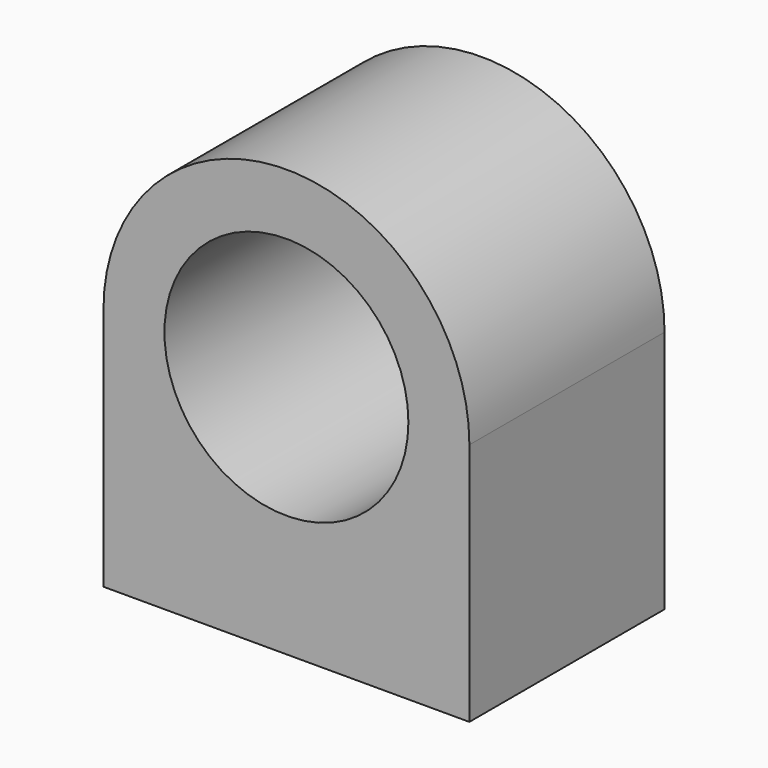
from build123d import *

# Parameters (mm, degrees)
F0_R     = 12.7
F1_DEPTH = 25.4
F3_D     = 6.35
F3_DEPTH = 12.7
F3_TIP   = 1.9077324654


with BuildPart() as f1:
    # F0 (on Front) → F1 (new body)
    with BuildSketch(Plane.XZ):
        with BuildLine():
            Line((19.05, -25.4), (19.05, 0))
            ThreePointArc((19.05, 0), (0, 19.05), (-19.05, 0))
            Line((-19.05, 0), (-19.05, -25.4))
            Line((-19.05, -25.4), (19.05, -25.4))
        make_face()
        Circle(F0_R, mode=Mode.SUBTRACT)
    extrude(amount=F1_DEPTH)

    # F3
    with Locations(Plane(origin=(0, 0, -25.4), x_dir=(1, 0, 0), z_dir=(0, 0, -1))):
        with Locations((-12.7, 12.7), (12.7, 12.7)):
            Hole(F3_D / 2, depth=F3_DEPTH)
            with Locations((0, 0, -(F3_DEPTH + F3_TIP / 2))):  # 118° drill point
                Cone(0, F3_D / 2, F3_TIP, mode=Mode.SUBTRACT)


solid = f1.part
